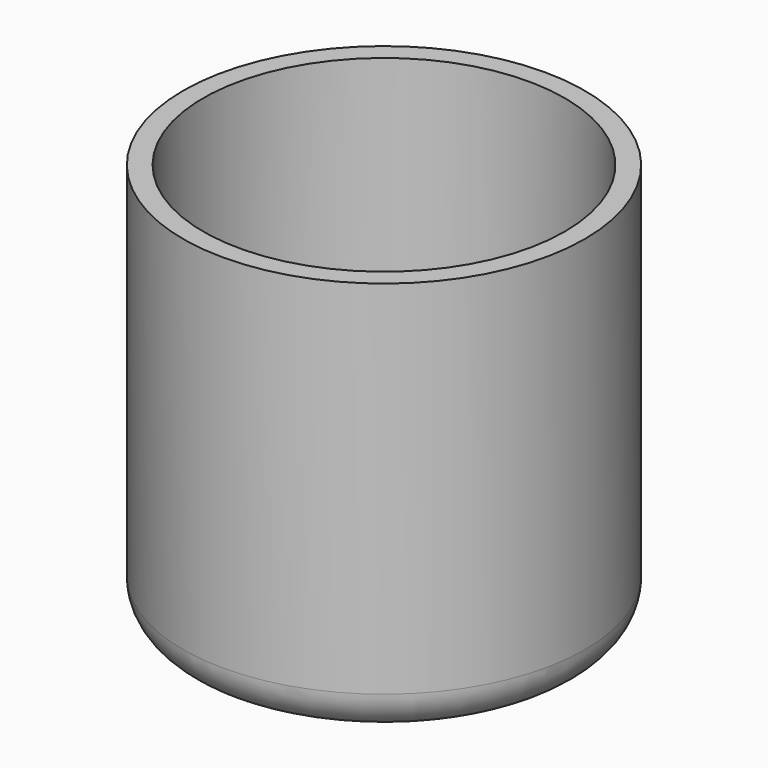
from build123d import *

# Parameters (mm, degrees)
F0_R     = 45
F0_R_2   = 40
F1_DEPTH = 50
F0_R_3   = 50
F2_DEPTH = 100
F3_DEPTH = 5
F4_R     = 10


with BuildPart() as f1:
    # F0 (on Top) → F1 (new body)
    with BuildSketch(Plane.XY):
        Circle(F0_R)
        Circle(F0_R_2, mode=Mode.SUBTRACT)
    extrude(amount=F1_DEPTH)

    # F0 (on Top) → F2 (join)
    with BuildSketch(Plane.XY):
        Circle(F0_R_3)
        Circle(F0_R, mode=Mode.SUBTRACT)
    extrude(amount=F2_DEPTH)

    # F0 (on Top) → F3 (join)
    with BuildSketch(Plane.XY):
        Circle(F0_R_3)
        Circle(F0_R, mode=Mode.SUBTRACT)
        Circle(F0_R)
        Circle(F0_R_2, mode=Mode.SUBTRACT)
        Circle(F0_R_2)
    extrude(amount=F3_DEPTH)

    # F4
    f4_edges = [f1.edges().sort_by_distance(p)[0] for p in [
        (-50, 0, 0),
    ]]
    fillet(f4_edges, radius=F4_R)


solid = f1.part
